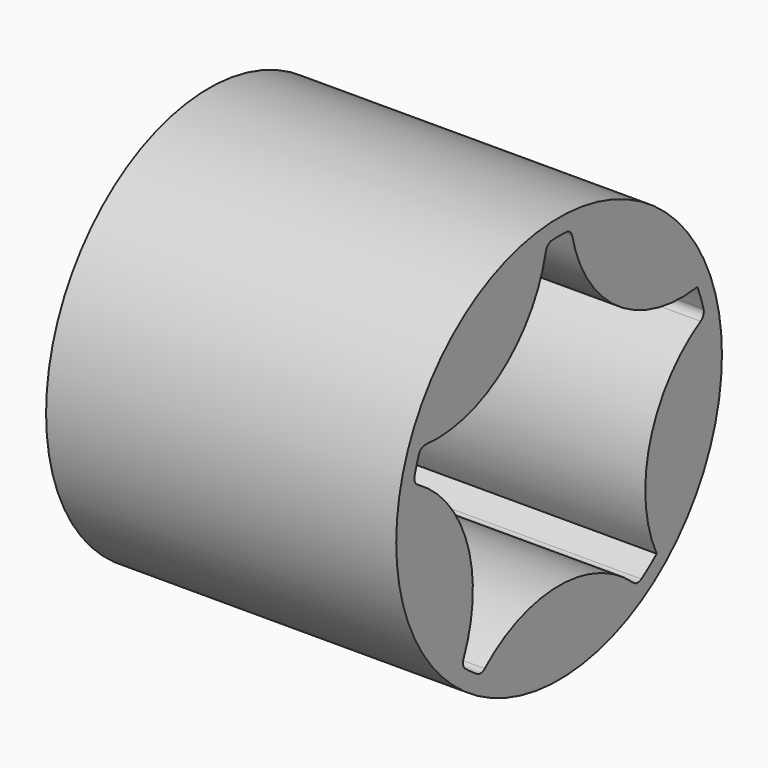
from build123d import *

# Parameters (mm, degrees)
F0_R     = 12.5
F1_DEPTH = 21.5
F2_R     = 0.5


with BuildPart() as f1:
    # F0 (on Right) → F1 (new body)
    with BuildSketch(Plane.YZ):
        Circle(F0_R)
        with BuildLine():
            ThreePointArc((-11.189467, 2.654396), (-10.93715, 3.553695), (-10.612684, 4.429553))
            ThreePointArc((-10.612684, 4.429553), (-4.349611, 5.986726), (-0.933255, 11.462069))
            ThreePointArc((-0.933255, 11.462069), (0, 11.5), (0.933255, 11.462069))
            ThreePointArc((0.933255, 11.462069), (4.349611, 5.986726), (10.612684, 4.429553))
            ThreePointArc((10.612684, 4.429553), (10.93715, 3.553695), (11.189467, 2.654396))
            ThreePointArc((11.189467, 2.654396), (7.037818, -2.286726), (7.492255, -8.724455))
            ThreePointArc((7.492255, -8.724455), (6.75953, -9.303695), (5.982216, -9.821562))
            ThreePointArc((5.982216, -9.821562), (0, -7.4), (-5.982216, -9.821562))
            ThreePointArc((-5.982216, -9.821562), (-6.75953, -9.303695), (-7.492255, -8.724455))
            ThreePointArc((-7.492255, -8.724455), (-7.037818, -2.286726), (-11.189467, 2.654396))
        make_face(mode=Mode.SUBTRACT)
    extrude(amount=F1_DEPTH)

    # F2
    f2_edges = [f1.edges().sort_by_distance(p)[0] for p in [
        (10.75, -0.933255, 11.462069),
        (10.75, 0.933255, 11.462069),
        (10.75, -10.612684, 4.429553),
        (10.75, -11.189467, 2.654396),
        (10.75, -7.492255, -8.724455),
        (10.75, -5.982216, -9.821562),
        (10.75, 5.982216, -9.821562),
        (10.75, 11.189467, 2.654396),
    ]]
    fillet(f2_edges, radius=F2_R)


solid = f1.part
